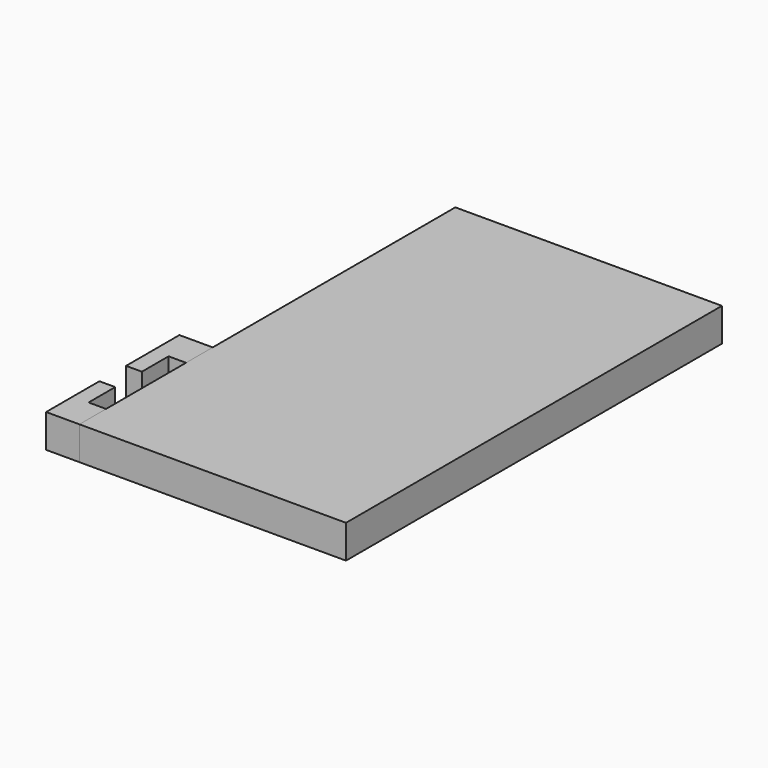
from build123d import *

# Parameters (mm, degrees)
BOX_W        = 80
BOX_H        = 141
BOX_DEPTH    = 10
BOX003_W     = 10
BOX003_H     = 10
BOX003_DEPTH = 10
BOX002_W     = 5.25
BOX002_H     = 30
BOX002_DEPTH = 10
BOX001_W     = 10
BOX001_H     = 50
BOX001_DEPTH = 10


with BuildPart() as cube:
    # Box → Box (new body)
    with BuildSketch(Plane(origin=(-40, 0, 0), x_dir=(1, 0, 0), z_dir=(0, 0, 1))):
        with Locations((40, 70.5)):
            Rectangle(BOX_W, BOX_H)
    extrude(amount=BOX_DEPTH)


with BuildPart() as box003:
    # Box003 → Box003 (new body)
    with BuildSketch(Plane(origin=(-50, 20, 0), x_dir=(1, 0, 0), z_dir=(0, 0, 1))):
        with Locations((5, 5)):
            Rectangle(BOX003_W, BOX003_H)
    extrude(amount=BOX003_DEPTH)


with BuildPart() as box002:
    # Box002 → Box002 (new body)
    with BuildSketch(Plane(origin=(-45.25, 10, 0), x_dir=(1, 0, 0), z_dir=(0, 0, 1))):
        with Locations((2.625, 15)):
            Rectangle(BOX002_W, BOX002_H)
    extrude(amount=BOX002_DEPTH)


with BuildPart() as cut001:
    # Box001 → Box001 (new body)
    with BuildSketch(Plane(origin=(-50, 0, 0), x_dir=(1, 0, 0), z_dir=(0, 0, 1))):
        with Locations((5, 25)):
            Rectangle(BOX001_W, BOX001_H)
    extrude(amount=BOX001_DEPTH)

    # Cut: cut Box002
    add(box002.part, mode=Mode.SUBTRACT)

    # Cut001: cut Box003
    add(box003.part, mode=Mode.SUBTRACT)


solid = Compound([cube.part, cut001.part])
